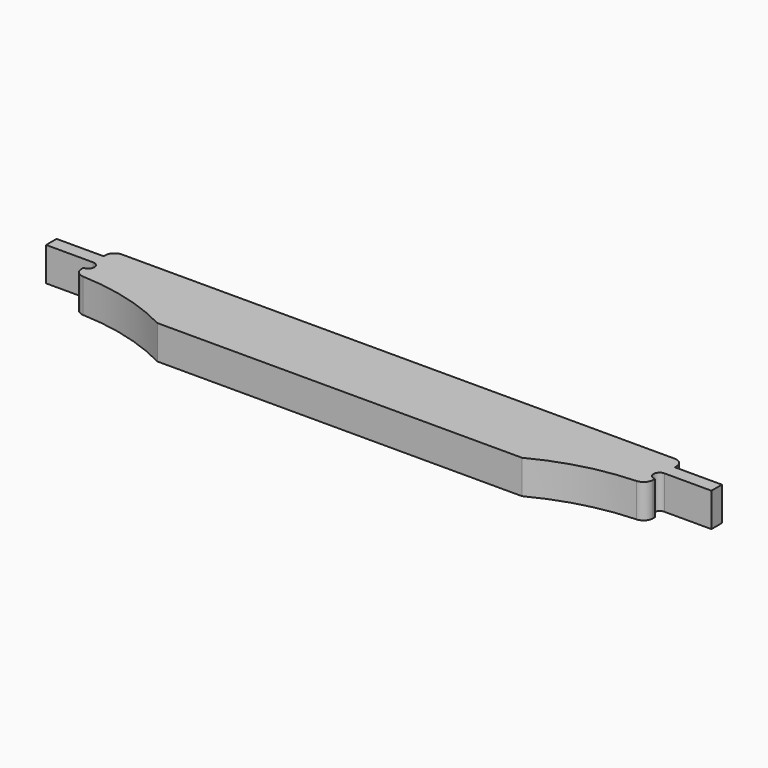
from build123d import *

# Parameters (mm, degrees)
F1_DEPTH = 18
F2_R     = 5
F4_DEPTH = 18.001
F5_R     = 5


with BuildPart() as f1:
    # F0 (on Top) → F1 (new body)
    with BuildSketch(Plane.XY):
        with BuildLine():
            Line((-177, 7), (-177, 0))
            Line((-177, 0), (-152, 0))
            Line((-152, 0), (-152, -12.5))
            ThreePointArc((-152, -12.5), (-123.683706, -15.924358), (-97, -26))
            Line((-97, -26), (0, -26))
            Line((0, -26), (97, -26))
            ThreePointArc((97, -26), (123.683706, -15.924358), (152, -12.5))
            Line((152, -12.5), (152, 0))
            Line((152, 0), (177, 0))
            Line((177, 0), (177, 7))
            Line((177, 7), (152, 7))
            Line((152, 7), (152, 13))
            Line((152, 13), (0, 13))
            Line((0, 13), (-152, 13))
            Line((-152, 13), (-152, 7))
            Line((-152, 7), (-177, 7))
        make_face()
    extrude(amount=F1_DEPTH)

    # F2
    f2_edges = [f1.edges().sort_by_distance(p)[0] for p in [
        (-152, -12.5, 9),
        (152, -12.5, 9),
    ]]
    fillet(f2_edges, radius=F2_R)

    # F3 (on face) → F4 (cut, through all)
    with BuildSketch(Plane.XY.offset(18)):
        with BuildLine():
            ThreePointArc((152, 0), (148.825, -3.175), (152, -6.35))
            Line((152, -6.35), (152, 0))
        make_face()
        with BuildLine():
            Line((-152, 0), (-152, -6.36))
            ThreePointArc((-152, -6.36), (-148.82, -3.18), (-152, 0))
        make_face()
    extrude(amount=-F4_DEPTH, mode=Mode.SUBTRACT)

    # F5
    f5_edges = [f1.edges().sort_by_distance(p)[0] for p in [
        (-152, 13, 9),
        (152, 13, 9),
    ]]
    fillet(f5_edges, radius=F5_R)


solid = f1.part
